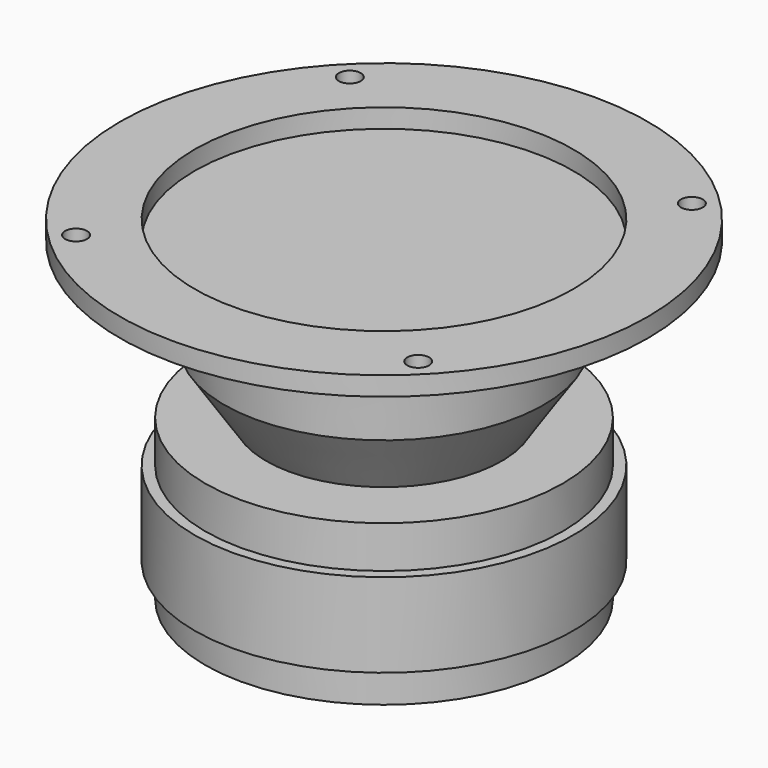
from build123d import *

# Parameters (mm, degrees)
F0_W     = 42.5
F0_H     = 8
F1_R     = 62.75
F1_R_2   = 2.6
F1_R_3   = 45
F3_DEPTH = 4.5


with BuildPart() as f2:
    # F0 (on Right) → F2 (revolve)
    with BuildSketch(Plane.YZ):
        Polygon((0, -37), (0, 0), (-47.5, 0), (-47.5, -3), (-39, -3), (-38, -22), (-28, -37), align=None)
        Polygon((0, -47), (0, -37), (-28, -37), (-42.5, -37), (-42.5, -47), align=None)
        Polygon((0, -67), (0, -47), (-42.5, -47), (-45, -47), (-45, -67), (-42.5, -67), align=None)
        with Locations((-21.25, -71)):
            Rectangle(F0_W, F0_H)
    revolve(axis=Axis((0, 0, -38.677778095), (0, 0, -1)))

    # F1 (on Top) → F3 (join)
    with BuildSketch(Plane.XY):
        Circle(F1_R)
        with Locations((-40.6586399182, -40.6586399182)):
            Circle(F1_R_2, mode=Mode.SUBTRACT)
        with Locations((40.6586399182, -40.6586399182)):
            Circle(F1_R_2, mode=Mode.SUBTRACT)
        with Locations((-40.6586399182, 40.6586399182)):
            Circle(F1_R_2, mode=Mode.SUBTRACT)
        Circle(F1_R_3, mode=Mode.SUBTRACT)
        with Locations((40.6586399182, 40.6586399182)):
            Circle(F1_R_2, mode=Mode.SUBTRACT)
    extrude(amount=F3_DEPTH)


solid = f2.part
